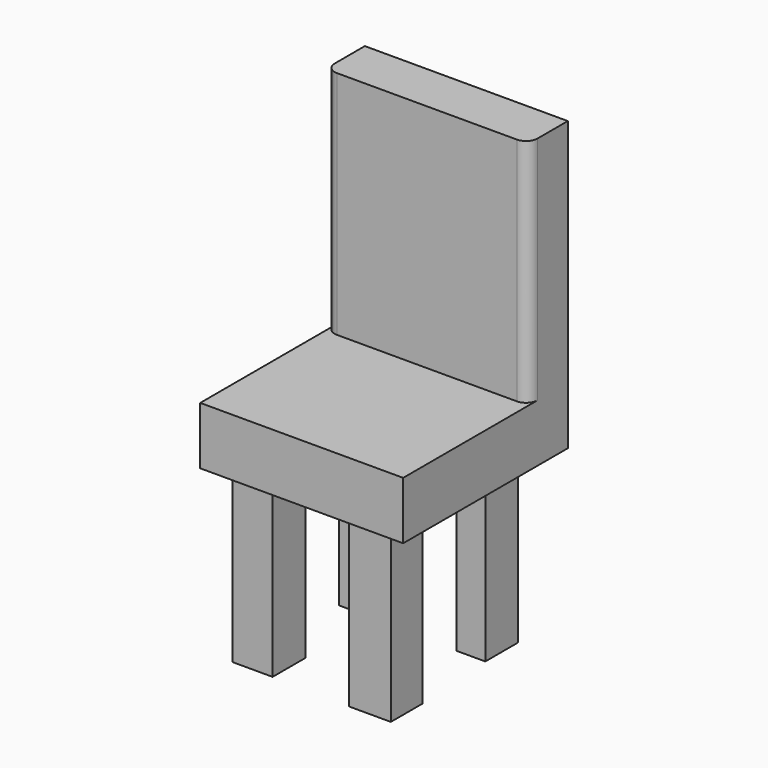
from build123d import *

# Parameters (mm, degrees)
F0_W     = 89.4640423357
F0_H     = 90.7079130411
F1_DEPTH = 25.4
F2_W     = 89.4640423357
F2_H     = 21.721240133
F3_DEPTH = 101.6
F4_W     = 17.7147258073
F4_H     = 18.108388409
F4_W_2   = 18.5020421632
F4_H_2   = 17.3210632056
F4_W_3   = 12.5971408561
F4_H_3   = 18.1083856151
F4_W_4   = 16.9274024665
F5_DEPTH = 76.2
F6_R     = 5.08


with BuildPart() as f1:
    # F0 (on Top) → F1 (new body)
    with BuildSketch(Plane.XY):
        with Locations((-10.2659445256, -7.1802102029)):
            Rectangle(F0_W, F0_H)
    extrude(amount=F1_DEPTH)

    # F2 (on face) → F3 (join)
    with BuildSketch(Plane.XY.offset(25.4)):
        with Locations((-10.2659445256, 27.3131262511)):
            Rectangle(F2_W, F2_H)
    extrude(amount=F3_DEPTH)

    # F4 (on face) → F5 (join)
    with BuildSketch(Plane(origin=(0, 0, 0), x_dir=(1, 0, 0), z_dir=(0, 0, -1))):
        with Locations((-38.7079184875, 35.0316995755)):
            Rectangle(F4_W, F4_H)
        with Locations((13.6489381548, 36.21267993)):
            Rectangle(F4_W_2, F4_H_2)
        with Locations((13.8457692228, -19.687120337)):
            Rectangle(F4_W_3, F4_H_3)
        with Locations((-36.7396157235, -20.8681025542)):
            Rectangle(F4_W_4, F4_H_3)
    extrude(amount=F5_DEPTH)

    # F6
    f6_edges = [f1.edges().sort_by_distance(p)[0] for p in [
        (34.466077, 16.452506, 76.2),
        (-54.997966, 16.452506, 76.2),
    ]]
    fillet(f6_edges, radius=F6_R)


solid = f1.part
